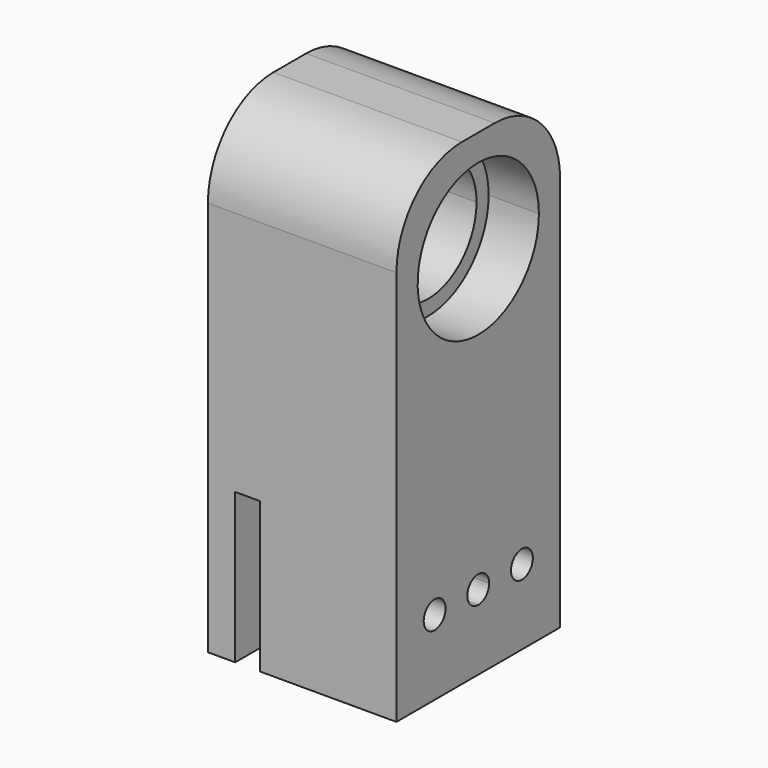
from build123d import *

# Parameters (mm, degrees)
F0_W     = 27.65
F0_H     = 15
F1_DEPTH = 15
F3_DEPTH = 7.366
F4_DEPTH = 40
F6_DEPTH = 7.366
F7_R     = 12
F8_R     = 2
F9_DEPTH = 30


with BuildPart() as f1:
    # F0 (on Front) → F1 (new body, symmetric)
    with BuildSketch(Plane.XZ):
        Polygon((-6.175, -27.5), (13.825, -27.5), (13.825, 27.5), (-13.825, 27.5), (-13.825, -5.5), (-13.825, -27.5), (-9.825, -27.5), (-9.825, -5.5), (-6.175, -5.5), align=None)
        with Locations((0, 35)):
            Rectangle(F0_W, F0_H)
    extrude(amount=F1_DEPTH, both=True)

    # F2 (on face) → F3 (cut)
    with BuildSketch(Plane.YZ.offset(13.825)):
        with BuildLine():
            ThreePointArc((11.1125, 27.5), (7.8577241059, 35.3577241059), (0, 38.6125))
            ThreePointArc((0, 38.6125), (-7.8577241059, 19.6422758941), (11.1125, 27.5))
        make_face()
        with BuildLine():
            ThreePointArc((8.89, 27.5), (-6.2861792847, 21.2138207153), (0, 36.39))
            ThreePointArc((0, 36.39), (6.2861792847, 33.7861792847), (8.89, 27.5))
        make_face(mode=Mode.SUBTRACT)
    extrude(amount=-F3_DEPTH, mode=Mode.SUBTRACT)

    # F4 (cut): a face of the model
    f4_faces = [f1.faces().sort_by_distance(p)[0] for p in [
        (13.825, 0, 27.5),
    ]]
    extrude(f4_faces, amount=-F4_DEPTH, mode=Mode.SUBTRACT)

    # F5 (on face) → F6 (cut)
    with BuildSketch(Plane(origin=(-13.825, 0, 0), x_dir=(0, -1, 0), z_dir=(-1, 0, 0))):
        with BuildLine():
            ThreePointArc((11.2, 27.5), (7.9195959493, 35.4195959493), (0, 38.7))
            ThreePointArc((0, 38.7), (-7.9195959493, 19.5804040507), (11.2, 27.5))
        make_face()
        with BuildLine():
            ThreePointArc((8.89, 27.5), (-6.2861792847, 21.2138207153), (0, 36.39))
            ThreePointArc((0, 36.39), (6.2861792847, 33.7861792847), (8.89, 27.5))
        make_face(mode=Mode.SUBTRACT)
    extrude(amount=-F6_DEPTH, mode=Mode.SUBTRACT)

    # F7
    f7_edges = [f1.edges().sort_by_distance(p)[0] for p in [
        (0, 15, 42.5),
        (0, -15, 42.5),
    ]]
    fillet(f7_edges, radius=F7_R)

    # F8 (on face) → F9 (cut)
    with BuildSketch(Plane(origin=(-13.825, 0, 0), x_dir=(0, -1, 0), z_dir=(-1, 0, 0))):
        with BuildLine():
            Line((-2, -16.5), (0, -16.5))
            Line((0, -16.5), (2, -16.5))
            ThreePointArc((2, -16.5), (0, -14.5), (-2, -16.5))
        make_face()
        with BuildLine():
            ThreePointArc((-2, -16.5), (-1.4142135624, -17.9142135624), (0, -18.5))
            Line((0, -18.5), (0, -16.5))
            Line((0, -16.5), (-2, -16.5))
        make_face()
        with BuildLine():
            Line((0, -16.5), (0, -18.5))
            ThreePointArc((0, -18.5), (1.4142135624, -17.9142135624), (2, -16.5))
            Line((2, -16.5), (0, -16.5))
        make_face()
        with Locations((-8, -16.5)):
            Circle(F8_R)
        with BuildLine():
            ThreePointArc((10, -16.5), (8, -14.5), (6, -16.5))
            ThreePointArc((6, -16.5), (8, -18.5), (10, -16.5))
        make_face()
    extrude(amount=-F9_DEPTH, mode=Mode.SUBTRACT)


solid = f1.part
